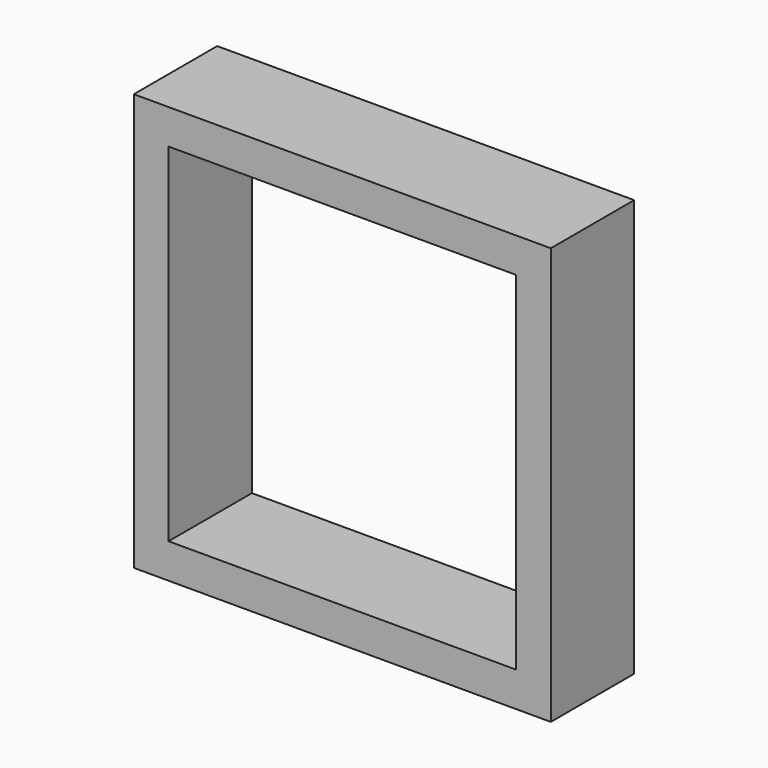
from build123d import *

# Parameters (mm, degrees)
F0_W     = 31.75
F0_H     = 31.75
F1_DEPTH = 9.525


with BuildPart() as f1:
    # F0 (on Front) → F1 (new body)
    with BuildSketch(Plane.XZ):
        Polygon((0, 38.1), (0, 0), (34.925, 0), (38.1, 0), (38.1, 38.1), align=None)
        with Locations((19.05, 19.05)):
            Rectangle(F0_W, F0_H, mode=Mode.SUBTRACT)
    extrude(amount=-F1_DEPTH)


solid = f1.part
